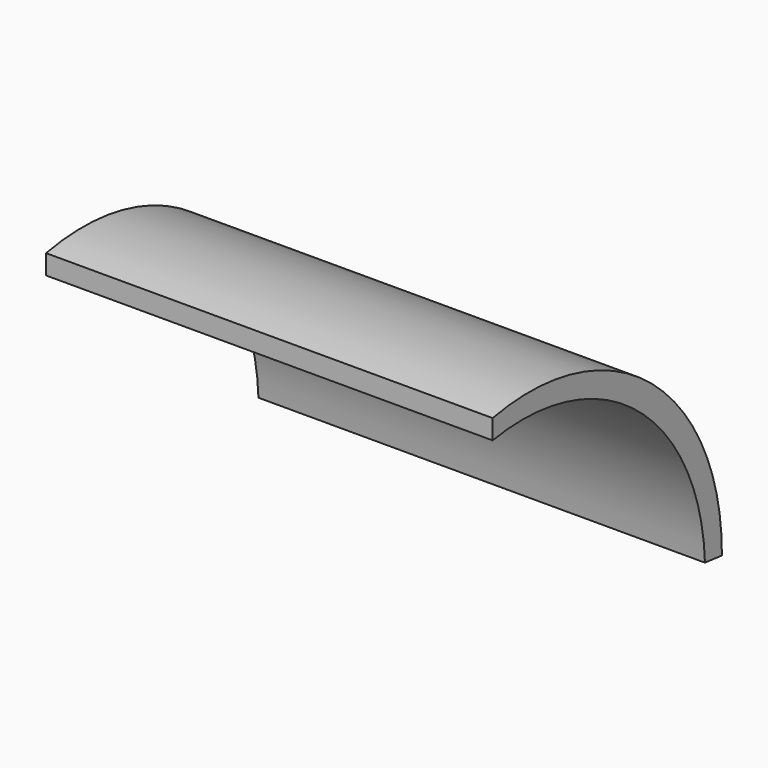
from build123d import *

# Parameters (mm, degrees)
F1_DEPTH = 152.4


with BuildPart() as f1:
    # F0 (on Right) → F1 (new body)
    with BuildSketch(Plane.YZ):
        with BuildLine():
            Line((40.263098, -25.035387), (47.489807, -25.809677))
            ThreePointArc((47.489807, -25.809677), (17.731846, 37.827354), (-50.328873, 55.232711))
            Line((-50.328873, 55.232711), (-50.328873, 48.522197))
            ThreePointArc((-50.328873, 48.522197), (11.590367, 32.216255), (40.263098, -25.035387))
        make_face()
    extrude(amount=F1_DEPTH)


solid = f1.part
